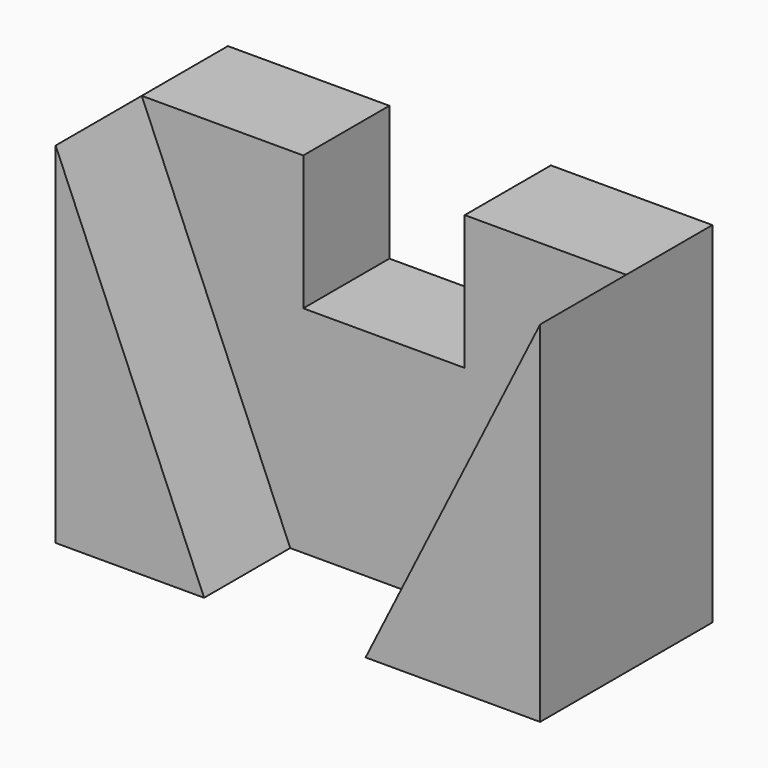
from build123d import *

# Parameters (mm, degrees)
F0_W     = 90
F0_H     = 65
F1_DEPTH = 40
F3_DEPTH = 20
F4_W     = 30
F4_H     = 50
F5_DEPTH = 20.001


with BuildPart() as f1:
    # F0 (on Front) → F1 (new body)
    with BuildSketch(Plane.XZ):
        Rectangle(F0_W, F0_H)
    extrude(amount=F1_DEPTH)

    # F2 (on face) → F3 (cut)
    with BuildSketch(Plane.XZ.offset(40)):
        Polygon((-45, 32.5), (-17.421313, -32.5), (12.578687, -32.5), (45, 32.5), align=None)
    extrude(amount=-F3_DEPTH, mode=Mode.SUBTRACT)

    # F4 (on face) → F5 (cut, through all)
    with BuildSketch(Plane.XZ.offset(20)):
        with Locations((0, 32.5)):
            Rectangle(F4_W, F4_H)
        with Locations((0, 32.5)):
            Rectangle(F4_W, F4_H)
    extrude(amount=-F5_DEPTH, mode=Mode.SUBTRACT)


solid = f1.part
